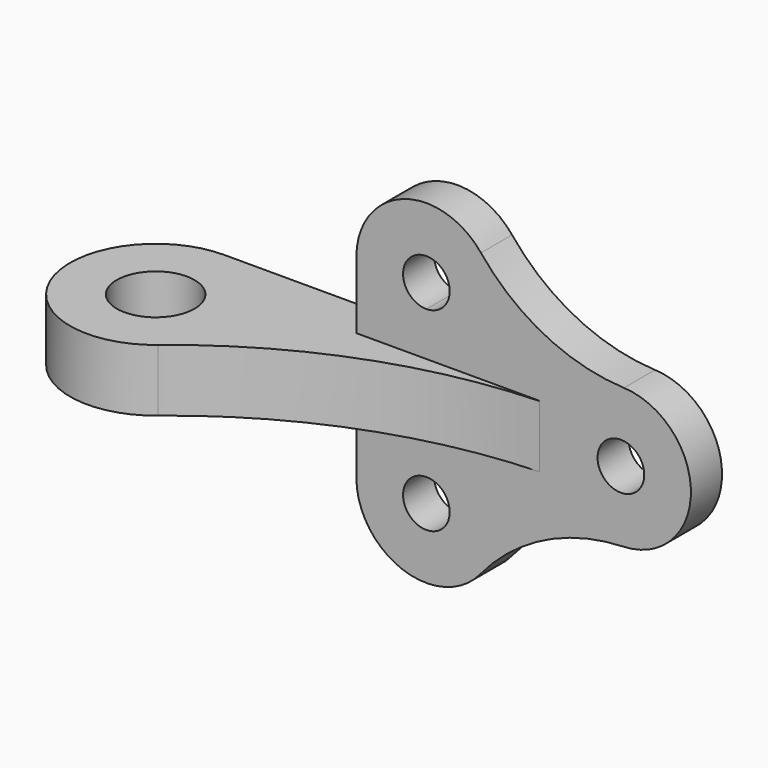
from build123d import *

# Parameters (mm, degrees)
F1_DEPTH = 10
F2_R     = 10
F3_DEPTH = 8


with BuildPart() as f1:
    # F0 (on Front) → F1 (new body)
    with BuildSketch(Plane.XZ):
        with BuildLine():
            ThreePointArc((50.789058, 17.982697), (30.400599, 23.323751), (14.024352, 36.591554))
            ThreePointArc((14.024352, 36.591554), (-5.981708, 42.285064), (-18, 25.308046))
            Line((-18, 25.308046), (-18, -24.691954))
            ThreePointArc((-18, -24.691954), (-6.084138, -41.632535), (13.88703, -36.144046))
            ThreePointArc((13.88703, -36.144046), (30.322667, -23.124118), (50.651736, -17.988197))
            ThreePointArc((50.651736, -17.988197), (67.999869, -0.068716), (50.789058, 17.982697))
        make_face()
        with BuildLine():
            ThreePointArc((6, -24.691954), (-4.242641, -28.934595), (0, -18.691954))
            ThreePointArc((0, -18.691954), (4.242641, -20.449314), (6, -24.691954))
        make_face(mode=Mode.SUBTRACT)
        with BuildLine():
            ThreePointArc((56, 0), (50, -6), (44, 0))
            ThreePointArc((44, 0), (50, 6), (56, 0))
        make_face(mode=Mode.SUBTRACT)
        with BuildLine():
            ThreePointArc((0, 19.308046), (-4.242641, 29.550686), (6, 25.308046))
            ThreePointArc((6, 25.308046), (4.242641, 21.065405), (0, 19.308046))
        make_face(mode=Mode.SUBTRACT)
    extrude(amount=F1_DEPTH)

    # F2 (on Top) → F3 (join, symmetric)
    with BuildSketch(Plane.XY):
        with BuildLine():
            Line((29.110841, -10.096487), (0, 0))
            Line((0, 0), (-60, 0))
            ThreePointArc((-60, 0), (-80.688818, -29.481496), (-45.928789, -38.911565))
            ThreePointArc((-45.928789, -38.911565), (-10.788358, -18.307683), (29.110841, -10.096487))
        make_face()
        with Locations((-60, -22)):
            Circle(F2_R, mode=Mode.SUBTRACT)
    extrude(amount=F3_DEPTH, both=True)


solid = f1.part
